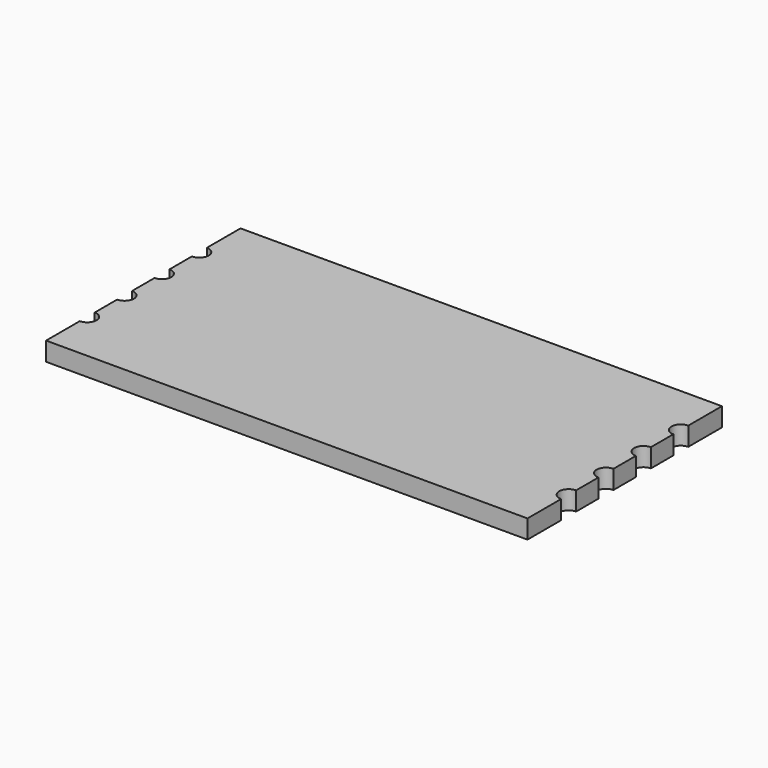
from build123d import *

# Parameters (mm, degrees)
F1_DEPTH = 25.4


with BuildPart() as f1:
    # F0 (on Top) → F1 (new body)
    with BuildSketch(Plane.XY):
        with BuildLine():
            Line((327.025, 107.95), (327.025, 165.1))
            Line((327.025, 165.1), (0, 165.1))
            Line((0, 165.1), (0, -165.1))
            Line((0, -165.1), (327.025, -165.1))
            Line((327.025, -165.1), (327.025, -107.95))
            ThreePointArc((327.025, -107.95), (314.325, -95.25), (327.025, -82.55))
            Line((327.025, -82.55), (327.025, -44.45))
            ThreePointArc((327.025, -44.45), (314.325, -31.75), (327.025, -19.05))
            Line((327.025, -19.05), (327.025, 19.05))
            ThreePointArc((327.025, 19.05), (314.325, 31.75), (327.025, 44.45))
            Line((327.025, 44.45), (327.025, 82.55))
            ThreePointArc((327.025, 82.55), (314.325, 95.25), (327.025, 107.95))
        make_face()
        with BuildLine():
            Line((0, -165.1), (0, 165.1))
            Line((0, 165.1), (-327.025, 165.1))
            Line((-327.025, 165.1), (-327.025, 107.95))
            ThreePointArc((-327.025, 107.95), (-314.325, 95.25), (-327.025, 82.55))
            Line((-327.025, 82.55), (-327.025, 44.45))
            ThreePointArc((-327.025, 44.45), (-314.325, 31.75), (-327.025, 19.05))
            Line((-327.025, 19.05), (-327.025, -19.05))
            ThreePointArc((-327.025, -19.05), (-314.325, -31.75), (-327.025, -44.45))
            Line((-327.025, -44.45), (-327.025, -82.55))
            ThreePointArc((-327.025, -82.55), (-314.325, -95.25), (-327.025, -107.95))
            Line((-327.025, -107.95), (-327.025, -165.1))
            Line((-327.025, -165.1), (0, -165.1))
        make_face()
    extrude(amount=F1_DEPTH)


solid = f1.part
